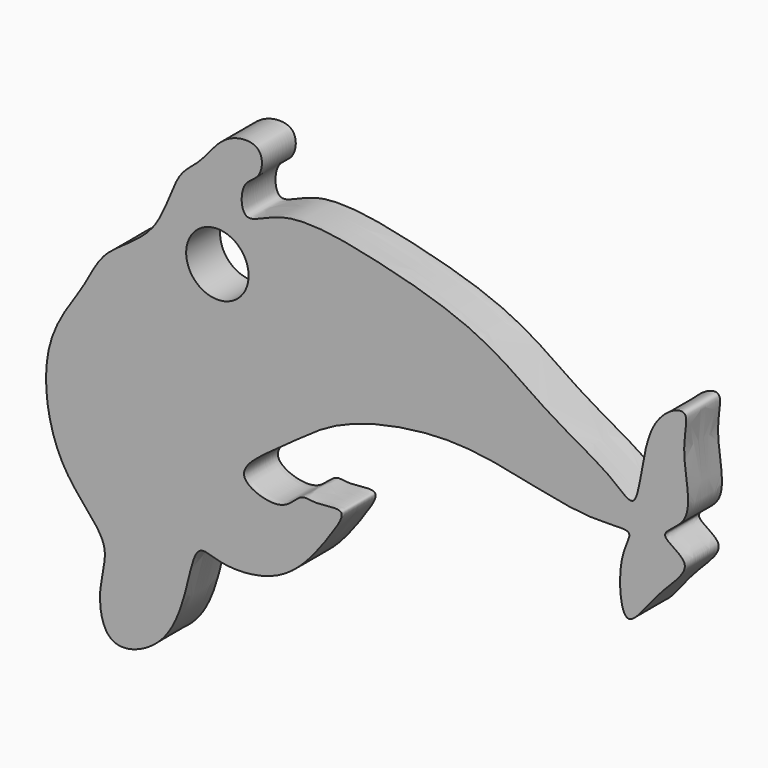
from build123d import *

# Parameters (mm, degrees)
F0_R     = 3.6870189619
F1_DEPTH = 5


with BuildPart() as f1:
    # F0 (on Front) → F1 (new body)
    with BuildSketch(Plane.XZ):
        with BuildLine():
            add(Edge.make_bspline(
                [(-15.0693813339, 22.3392415792), (-16.5962387075, 20.3848743041), (-21.0814458697, 18.349524102), (-23.0519791671, 13.2790204276), (-28.7177170165, 6.5091967112), (-26.9754966678, -6.424932774), (-19.5353881537, -11.9588634148), (-21.7622730405, -16.9948323877), (-20.6600118311, -23.8011993115), (-13.1102726454, -20.9716531466), (-10.9610358932, -13.8504758978), (-9.9246868861, -8.5532142754), (-6.8244547605, -10.3193673307), (0.7892614946, -9.906143987), (5.5153277782, -3.4981534401), (8.3169574073, 0.7355100784), (4.2090001023, -0.2877298744), (2.3489734506, 0.5255993095), (0.4464906118, -2.5911537172), (-6.7227477239, -0.1286148744), (0.7761773244, 4.7668210482), (6.3680794795, 9.3894148286), (15.9831620751, 11.7159430456), (24.8303274083, 11.6329638793), (36.0003575184, 8.421998596), (42.3193403353, 9.5985350565), (39.7921797656, 6.3498674915), (40.346035885, -2.8170925402), (44.4871834772, 4.0590394775), (49.6648709097, 7.9408852724), (43.7878298009, 10.0479332897), (49.4994222793, 12.1565808144), (46.9792278746, 19.3685386297), (48.8885615925, 24.7210696334), (42.5817129092, 21.6945428095), (42.7252398345, 10.4014970492), (38.9916480911, 14.4524218258), (31.7675779566, 17.8960172214), (23.9036427752, 24.2199950243), (11.2248417349, 27.7080649961), (0.5549357478, 29.6117030585), (-4.5858024738, 25.7094181838), (-4.7272158249, 30.7619421496), (-2.1571548709, 31.3970045242), (-1.8366810359, 35.3079222155), (-6.7302415919, 35.0685904726), (-9.262634294, 30.815465836), (-12.4612548095, 29.0995607864), (-13.5350363345, 24.3031929655), (-15.0693813339, 22.3392415792)],
                knots=[0, 0, 0, 0, 0.0239386501, 0.0443842609, 0.0704912617, 0.101968472, 0.1275572856, 0.1474816492, 0.1678607672, 0.1893694164, 0.2146698427, 0.2331659378, 0.2473163389, 0.2713498576, 0.2974724574, 0.3135631788, 0.3286745108, 0.3410128671, 0.3565509348, 0.3757274514, 0.3980088709, 0.4237693685, 0.451283971, 0.4785989273, 0.5100407775, 0.5287616556, 0.5439136644, 0.5663598221, 0.586981102, 0.6076336972, 0.6233760059, 0.639787308, 0.664153604, 0.6816026716, 0.7003235457, 0.7272996209, 0.7422920302, 0.7682959574, 0.7970679608, 0.8300532222, 0.8599022847, 0.8783804075, 0.8940025469, 0.907922445, 0.9225213745, 0.9395286235, 0.9592143268, 0.9759439561, 1, 1, 1, 1], degree=3))
        make_face()
        with Locations((-7.404871285, 21.0306663066)):
            Circle(F0_R, mode=Mode.SUBTRACT)
    extrude(amount=F1_DEPTH)


solid = f1.part
